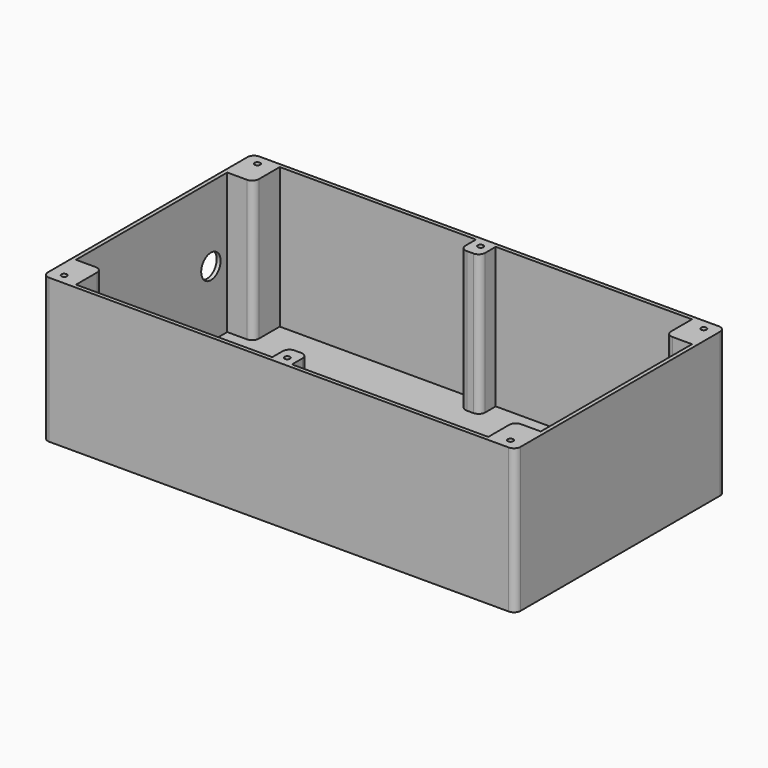
from build123d import *

# Parameters (mm, degrees)
F0_W     = 360
F0_H     = 200
F1_DEPTH = 110
F2_R     = 5
F3_T     = -3
F5_D     = 18.5
F5_DEPTH = 16.5
F5_TIP   = 5.557960726
F8_DEPTH = 107
F9_D     = 4.2
F9_DEPTH = 22.4
F9_TIP   = 1.2618073


with BuildPart() as f1:
    # F0 (on Top) → F1 (new body)
    with BuildSketch(Plane.XY):
        Rectangle(F0_W, F0_H)
    extrude(amount=F1_DEPTH)

    # F2
    f2_edges = [f1.edges().sort_by_distance(p)[0] for p in [
        (-180, 100, 55),
        (-180, -100, 55),
        (180, -100, 55),
        (180, 100, 55),
    ]]
    fillet(f2_edges, radius=F2_R)

    # F3
    f3_openings = [f1.faces().sort_by_distance(p)[0] for p in [
        (0, 0, 110),
    ]]
    offset(amount=F3_T, openings=f3_openings)

    # F5
    with Locations(Plane(origin=(-180, 0, 0), x_dir=(0, -1, 0), z_dir=(-1, 0, 0))):
        with Locations((-56.4456321299, 53.3652417362), (43.4474907815, 53.3652417362)):
            Hole(F5_D / 2, depth=F5_DEPTH)
            with Locations((0, 0, -(F5_DEPTH + F5_TIP / 2))):  # 118° drill point
                Cone(0, F5_D / 2, F5_TIP, mode=Mode.SUBTRACT)

    # F7 (on face) → F8 (join, through all)
    with BuildSketch(Plane.XY.offset(110)):
        with BuildLine():
            Line((-177, 95), (-177, 72))
            Line((-177, 72), (-162, 72))
            ThreePointArc((-162, 72), (-158.4644660941, 73.4644660941), (-157, 77))
            Line((-157, 77), (-157, 97))
            Line((-157, 97), (-175, 97))
            ThreePointArc((-175, 97), (-176.4142135624, 96.4142135624), (-177, 95))
        make_face()
        with BuildLine():
            Line((-175, -97), (-157, -97))
            Line((-157, -97), (-157, -77))
            ThreePointArc((-157, -77), (-158.4644660941, -73.4644660941), (-162, -72))
            Line((-162, -72), (-177, -72))
            Line((-177, -72), (-177, -95))
            ThreePointArc((-177, -95), (-176.4142135624, -96.4142135624), (-175, -97))
        make_face()
        with BuildLine():
            Line((7.5, 87), (7.5, 97))
            Line((7.5, 97), (-7.5, 97))
            Line((-7.5, 97), (-7.5, 87))
            ThreePointArc((-7.5, 87), (-6.0355339059, 83.4644660941), (-2.5, 82))
            Line((-2.5, 82), (2.5, 82))
            ThreePointArc((2.5, 82), (6.0355339059, 83.4644660941), (7.5, 87))
        make_face()
        with BuildLine():
            Line((-7.5, -97), (7.5, -97))
            Line((7.5, -97), (7.5, -87))
            ThreePointArc((7.5, -87), (6.0355339059, -83.4644660941), (2.5, -82))
            Line((2.5, -82), (-2.5, -82))
            ThreePointArc((-2.5, -82), (-6.0355339059, -83.4644660941), (-7.5, -87))
            Line((-7.5, -87), (-7.5, -97))
        make_face()
        with BuildLine():
            Line((157, -97), (175, -97))
            ThreePointArc((175, -97), (176.4142135624, -96.4142135624), (177, -95))
            Line((177, -95), (177, -72))
            Line((177, -72), (162, -72))
            ThreePointArc((162, -72), (158.4644660941, -73.4644660941), (157, -77))
            Line((157, -77), (157, -97))
        make_face()
        with BuildLine():
            Line((162, 72), (177, 72))
            Line((177, 72), (177, 95))
            ThreePointArc((177, 95), (176.4142135624, 96.4142135624), (175, 97))
            Line((175, 97), (157, 97))
            Line((157, 97), (157, 77))
            ThreePointArc((157, 77), (158.4644660941, 73.4644660941), (162, 72))
        make_face()
    extrude(amount=-F8_DEPTH)

    # F9
    with Locations(Plane.XY.offset(110)):
        with Locations((-170, -92), (-170, 92), (0, 92), (170, 92), (170, -92), (0, -92)):
            Hole(F9_D / 2, depth=F9_DEPTH)
            with Locations((0, 0, -(F9_DEPTH + F9_TIP / 2))):  # 118° drill point
                Cone(0, F9_D / 2, F9_TIP, mode=Mode.SUBTRACT)


solid = f1.part
